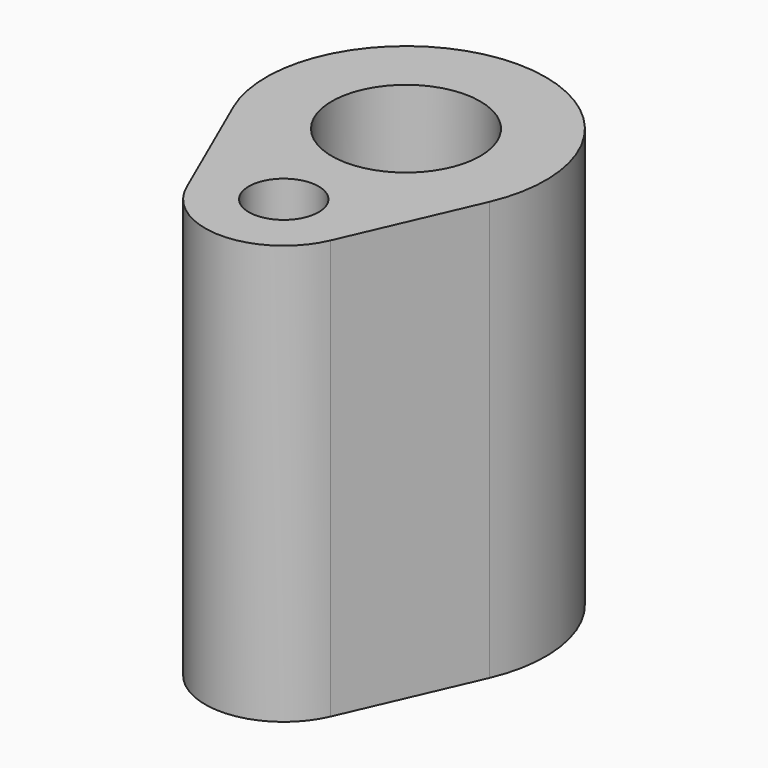
from build123d import *

# Parameters (mm, degrees)
F0_R     = 2
F0_R_2   = 4.25
F1_DEPTH = 24
F2_DEPTH = 4


with BuildPart() as f1:
    # F0 (on Top) → F1 (new body)
    with BuildSketch(Plane.XY):
        with BuildLine():
            Line((4.124318, -10.55), (7.332121, -3.2))
            ThreePointArc((7.332121, -3.2), (0, 8), (-7.332121, -3.2))
            Line((-7.332121, -3.2), (-4.124318, -10.55))
            ThreePointArc((-4.124318, -10.55), (0, -13.25), (4.124318, -10.55))
        make_face()
        with Locations((0, -8.75)):
            Circle(F0_R, mode=Mode.SUBTRACT)
        Circle(F0_R_2, mode=Mode.SUBTRACT)
    extrude(amount=F1_DEPTH)

    # F0 (on Top) → F2 (join)
    with BuildSketch(Plane.XY):
        Circle(F0_R_2)
    extrude(amount=F2_DEPTH)


solid = f1.part
